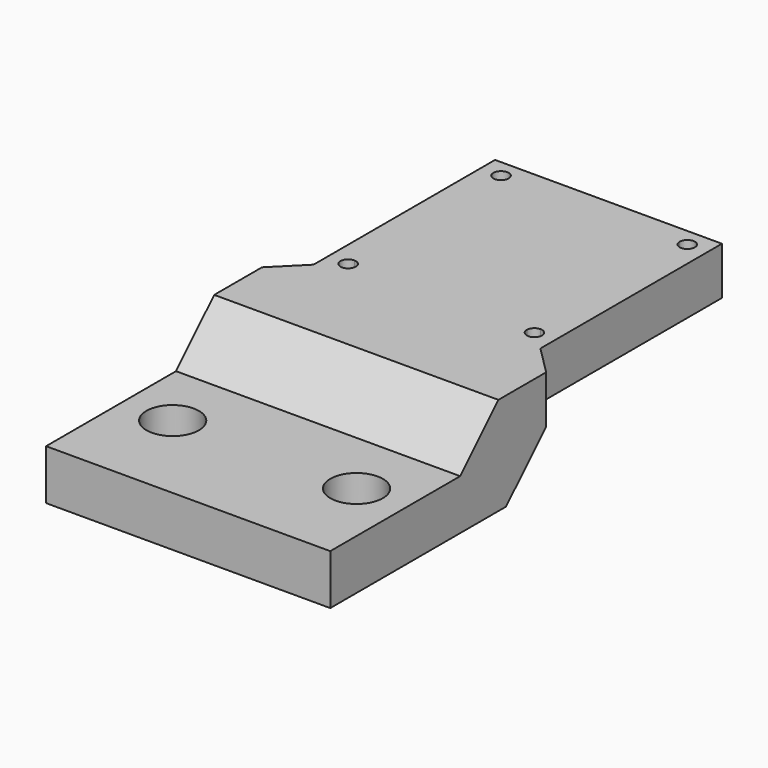
from build123d import *

# Parameters (mm, degrees)
F1_DEPTH  = 10
F2_W      = 59.5
F2_H      = 56.5
F3_DEPTH  = 10.5
F5_DEPTH  = 59.501
F7_DEPTH  = 7
F8_R      = 3.1
F9_DEPTH  = 3.5
F10_R     = 3.1
F11_DEPTH = 3.5
F13_DEPTH = 10


with BuildPart() as f1:
    # F0 (on Top) → F1 (new body)
    with BuildSketch(Plane.XY):
        Polygon((23.75, -23.75), (23.75, 23.75), (-23.75, 23.75), (-23.75, -23.75), (-29.75, -29.75), (-29.75, -86.25), (29.75, -86.25), (29.75, -29.75), align=None)
    extrude(amount=F1_DEPTH)

    # F2 (on face) → F3 (join)
    with BuildSketch(Plane(origin=(0, 0, 0), x_dir=(1, 0, 0), z_dir=(0, 0, -1))):
        with Locations((0, 58)):
            Rectangle(F2_W, F2_H)
    extrude(amount=F3_DEPTH)

    # F4 (on face) → F5 (cut, through all)
    with BuildSketch(Plane.YZ.offset(29.75)):
        Polygon((-52.25, 0), (-42.25, 10), (-86.25, 10), (-86.25, 0), align=None)
        Polygon((-29.75, -10.5), (-29.75, 0), (-40.25, -10.5), align=None)
    extrude(amount=-F5_DEPTH, mode=Mode.SUBTRACT)

    # F6 (on face) → F7 (cut)
    with BuildSketch(Plane.XY):
        with BuildLine():
            ThreePointArc((-13.75, -66.25), (-19.25, -60.75), (-24.75, -66.25))
            Line((-24.75, -66.25), (-13.75, -66.25))
        make_face()
        with BuildLine():
            ThreePointArc((24.75, -66.25), (19.25, -60.75), (13.75, -66.25))
            Line((13.75, -66.25), (24.75, -66.25))
        make_face()
        with BuildLine():
            Line((24.75, -66.25), (13.75, -66.25))
            ThreePointArc((13.75, -66.25), (19.25, -71.75), (24.75, -66.25))
        make_face()
        with BuildLine():
            Line((-13.75, -66.25), (-24.75, -66.25))
            ThreePointArc((-24.75, -66.25), (-19.25, -71.75), (-13.75, -66.25))
        make_face()
    extrude(amount=-F7_DEPTH, mode=Mode.SUBTRACT)

    # F8 (on face) → F9 (cut, through all)
    with BuildSketch(Plane.XY.offset(-7)):
        with Locations((19.25, -66.25)):
            Circle(F8_R)
    extrude(amount=-F9_DEPTH, mode=Mode.SUBTRACT)

    # F10 (on face) → F11 (cut, through all)
    with BuildSketch(Plane.XY.offset(-7)):
        with Locations((-19.25, -66.25)):
            Circle(F10_R)
    extrude(amount=-F11_DEPTH, mode=Mode.SUBTRACT)

    # F12 (on face) → F13 (cut, through all)
    with BuildSketch(Plane.XY.offset(10)):
        with BuildLine():
            Line((-19.5, 18.4), (-19.5, 20))
            Line((-19.5, 20), (-17.9, 20))
            ThreePointArc((-17.9, 20), (-20.631371, 21.131371), (-19.5, 18.4))
        make_face()
        with BuildLine():
            Line((-17.9, 20), (-19.5, 20))
            Line((-19.5, 20), (-19.5, 18.4))
            ThreePointArc((-19.5, 18.4), (-18.368629, 18.868629), (-17.9, 20))
        make_face()
        with BuildLine():
            Line((19.5, 20), (17.9, 20))
            ThreePointArc((17.9, 20), (18.368629, 18.868629), (19.5, 18.4))
            Line((19.5, 18.4), (19.5, 20))
        make_face()
        with BuildLine():
            ThreePointArc((21.1, 20), (19.5, 21.6), (17.9, 20))
            Line((17.9, 20), (19.5, 20))
            Line((19.5, 20), (19.5, 18.4))
            ThreePointArc((19.5, 18.4), (20.631371, 18.868629), (21.1, 20))
        make_face()
        with BuildLine():
            ThreePointArc((-17.9, -20), (-18.368629, -18.868629), (-19.5, -18.4))
            Line((-19.5, -18.4), (-19.5, -20))
            Line((-19.5, -20), (-17.9, -20))
        make_face()
        with BuildLine():
            Line((-19.5, -20), (-19.5, -18.4))
            ThreePointArc((-19.5, -18.4), (-20.631371, -21.131371), (-17.9, -20))
            Line((-17.9, -20), (-19.5, -20))
        make_face()
        with BuildLine():
            Line((19.5, -20), (19.5, -18.4))
            ThreePointArc((19.5, -18.4), (18.368629, -18.868629), (17.9, -20))
            Line((17.9, -20), (19.5, -20))
        make_face()
        with BuildLine():
            ThreePointArc((21.1, -20), (20.631371, -18.868629), (19.5, -18.4))
            Line((19.5, -18.4), (19.5, -20))
            Line((19.5, -20), (17.9, -20))
            ThreePointArc((17.9, -20), (19.5, -21.6), (21.1, -20))
        make_face()
    extrude(amount=-F13_DEPTH, mode=Mode.SUBTRACT)


solid = f1.part
